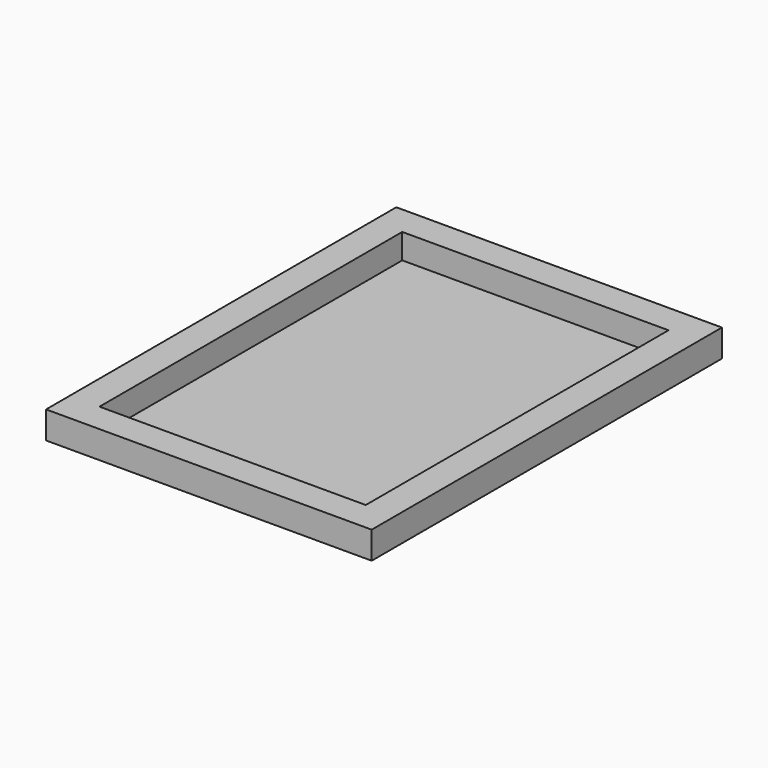
from build123d import *

# Parameters (mm, degrees)
F0_W     = 357
F0_H     = 480
F1_DEPTH = 30
F2_T     = -2.54
F3_DEPTH = 30
F4_DEPTH = 30
F5_DEPTH = 30
F6_DEPTH = 30


with BuildPart() as f1:
    # F0 (on Top) → F1 (new body)
    with BuildSketch(Plane.XY):
        Rectangle(F0_W, F0_H)
    extrude(amount=F1_DEPTH)

    # F2
    f2_openings = [f1.faces().sort_by_distance(p)[0] for p in [
        (0, 0, 30),
    ]]
    offset(amount=F2_T, openings=f2_openings)

    # F3 (add): a face of the model
    f3_faces = [f1.faces().sort_by_distance(p)[0] for p in [
        (0, 237.46, 16.27),
    ]]
    extrude(f3_faces, amount=F3_DEPTH)

    # F4 (add): a face of the model
    f4_faces = [f1.faces().sort_by_distance(p)[0] for p in [
        (175.96, -15, 16.27),
    ]]
    extrude(f4_faces, amount=F4_DEPTH)

    # F5 (add): a face of the model
    f5_faces = [f1.faces().sort_by_distance(p)[0] for p in [
        (-175.96, -15, 16.27),
    ]]
    extrude(f5_faces, amount=F5_DEPTH)

    # F6 (add): a face of the model
    f6_faces = [f1.faces().sort_by_distance(p)[0] for p in [
        (0, -237.46, 16.27),
    ]]
    extrude(f6_faces, amount=F6_DEPTH)


solid = f1.part
